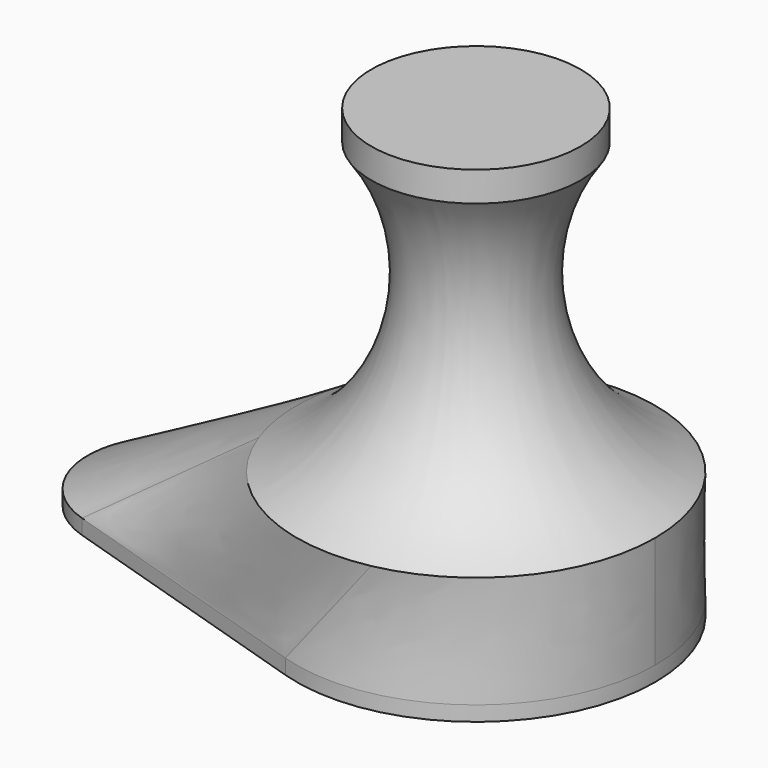
from build123d import *

# Parameters (mm, degrees)
SKETCH002_R  = 12
PAD_DEPTH    = 1
SKETCH001_R  = 7.75
POCKET_DEPTH = 5.75


with BuildPart() as part:
    # Sketch → Revolution (revolve)
    with BuildSketch(Plane.XZ):
        with BuildLine():
            ThreePointArc((7, 27.944074), (4.909607, 17.041628), (12, 8.5))
            Line((12, 8.5), (0, 8.5))
            Line((0, 8.5), (0, 29.944074))
            Line((7, 29.944074), (0, 29.944074))
            Line((7, 27.944074), (7, 29.944074))
        make_face()
    revolve(axis=Axis((0, 0, 0), (0, 0, 1)))

    # Sketch002 (on DatumPlane) → AdditiveLoft section 0
    with BuildSketch(Plane(origin=(0, 0, 8.5), x_dir=(1, 0, 0), z_dir=(0, 0, -1))):
        Circle(SKETCH002_R)
    # Sketch004 → AdditiveLoft section 1
    with BuildSketch(Plane.XY.offset(1)):
        with BuildLine():
            ThreePointArc((-3.6, -11.44727), (12, 0), (-3.6, 11.44727))
            Line((-21.8, 5.723635), (-3.6, 11.44727))
            ThreePointArc((-21.8, 5.723635), (-26, 0), (-21.8, -5.723635))
            Line((-21.8, -5.723635), (-3.6, -11.44727))
        make_face()
    loft(ruled=True)

    # Sketch003 → Pad (new body)
    with BuildSketch(Plane.XY):
        with BuildLine():
            ThreePointArc((-3.6, -11.44727), (12, 0), (-3.6, 11.44727))
            Line((-21.8, 5.723635), (-3.6, 11.44727))
            ThreePointArc((-21.8, 5.723635), (-26, 0), (-21.8, -5.723635))
            Line((-21.8, -5.723635), (-3.6, -11.44727))
        make_face()
    extrude(amount=PAD_DEPTH)

    # Sketch001 → Pocket (cut)
    with BuildSketch(Plane.XY.offset(0.5)):
        Circle(SKETCH001_R)
    extrude(amount=POCKET_DEPTH, mode=Mode.SUBTRACT)


solid = part.part
